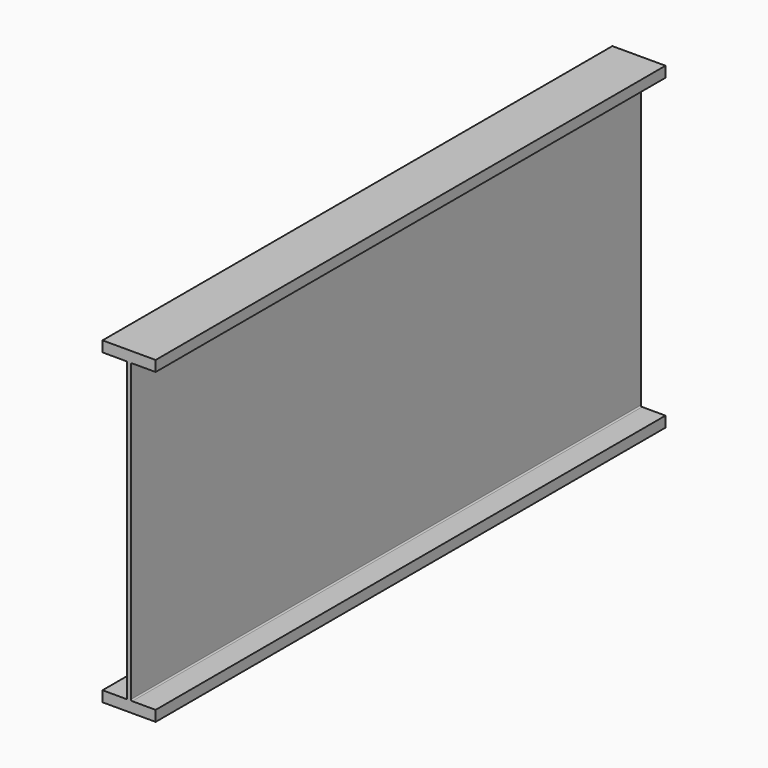
from build123d import *

# Parameters (mm, degrees)
F1_DEPTH = 120


with BuildPart() as f1:
    # F0 (on Front) → F1 (new body)
    with BuildSketch(Plane.XZ):
        with BuildLine():
            Line((5.355, 265), (-4.645, 265))
            Line((-4.645, 265), (-4.645, 263))
            Line((-4.645, 263), (-0.24, 263))
            ThreePointArc((-0.24, 263), (-0.070294, 262.929706), (0, 262.76))
            Line((0, 262.76), (0, 207.24))
            ThreePointArc((0, 207.24), (-0.070294, 207.070294), (-0.24, 207))
            Line((-0.24, 207), (-4.645, 207))
            Line((-4.645, 207), (-4.645, 205))
            Line((-4.645, 205), (5.355, 205))
            Line((5.355, 205), (5.355, 207))
            Line((5.355, 207), (0.95, 207))
            ThreePointArc((0.95, 207), (0.780294, 207.070294), (0.71, 207.24))
            Line((0.71, 207.24), (0.71, 262.76))
            ThreePointArc((0.71, 262.76), (0.780294, 262.929706), (0.95, 263))
            Line((0.95, 263), (5.355, 263))
            Line((5.355, 263), (5.355, 265))
        make_face()
    extrude(amount=F1_DEPTH)


solid = f1.part
